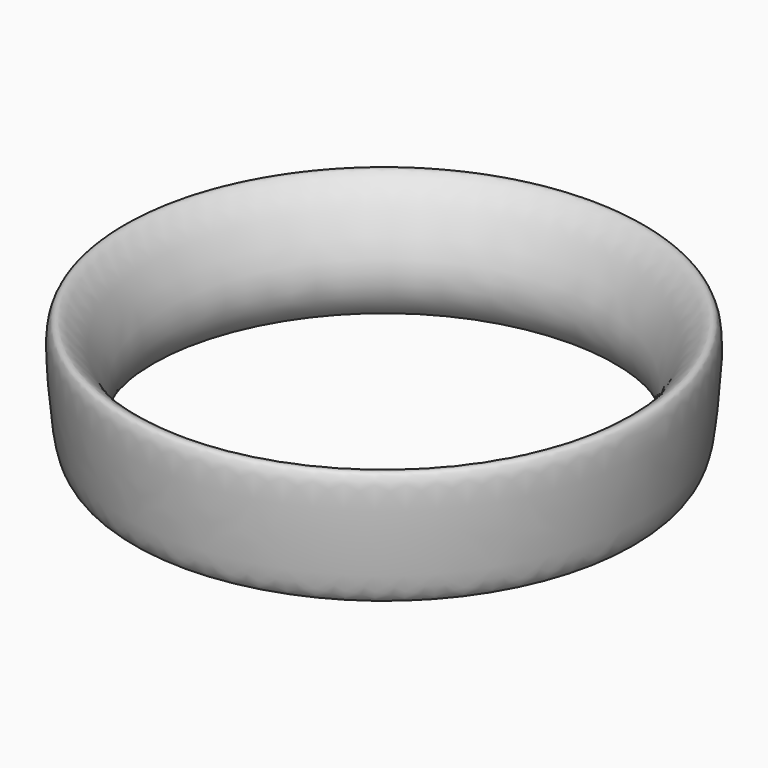
from build123d import *


with BuildPart() as f2:
    # F2: sweep along a path in F0
    with BuildLine(Plane.XY) as f2_path:
        CenterArc((102.2326946259, 0), 102.2326946259, 0, 360)
    # F1 (on Front) → F2 (sweep)
    with BuildSketch(Plane.XZ):
        with BuildLine():
            add(Edge.make_bspline(
                [(0, -30.5727068335), (-4.7427141672, -29.7536148289), (-6.5263218052, -9.0830745859), (-10.6739228637, 35.8939358708), (23.7307472181, -13.4067493609), (4.636342283, -31.3734278469), (0, -30.5727068335)],
                knots=[0, 0, 0, 0, 0.2311531362, 0.4835004112, 0.774031278, 1, 1, 1, 1], degree=3))
        make_face()
    sweep(path=f2_path.line)


solid = f2.part
